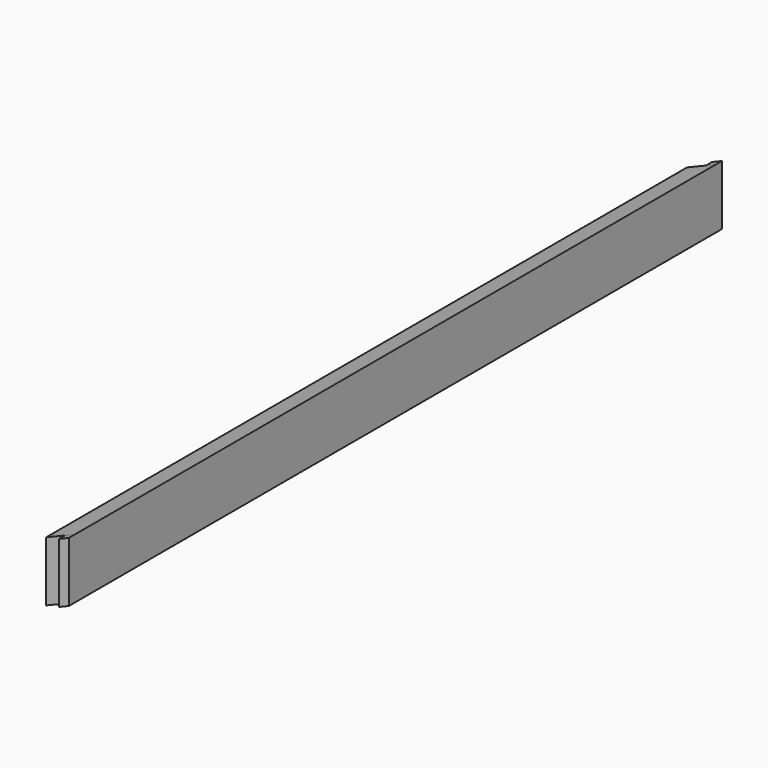
from build123d import *

# Parameters (mm, degrees)
F1_DEPTH = 1056
F3_DEPTH = 10
F5_DEPTH = 10


with BuildPart() as f1:
    # F0 (on Front) → F1 (new body)
    with BuildSketch(Plane.XZ):
        Polygon((0, 79), (0, 0), (38, 15.740115), (38, 94.740115), align=None)
    extrude(amount=-F1_DEPTH)

    # F2 (on face) → F3 (join)
    with BuildSketch(Plane.XZ):
        Polygon((38, 94.740115), (25, 89.355339), (25, 10.355339), (38, 15.740115), align=None)
    extrude(amount=F3_DEPTH)

    # F4 (on face) → F5 (join)
    with BuildSketch(Plane(origin=(0, 1056, 0), x_dir=(-1, 0, 0), z_dir=(0, 1, 0))):
        Polygon((-38, 94.740115), (-38, 15.740115), (-25, 10.355339), (-25, 89.355339), align=None)
    extrude(amount=F5_DEPTH)


solid = f1.part
